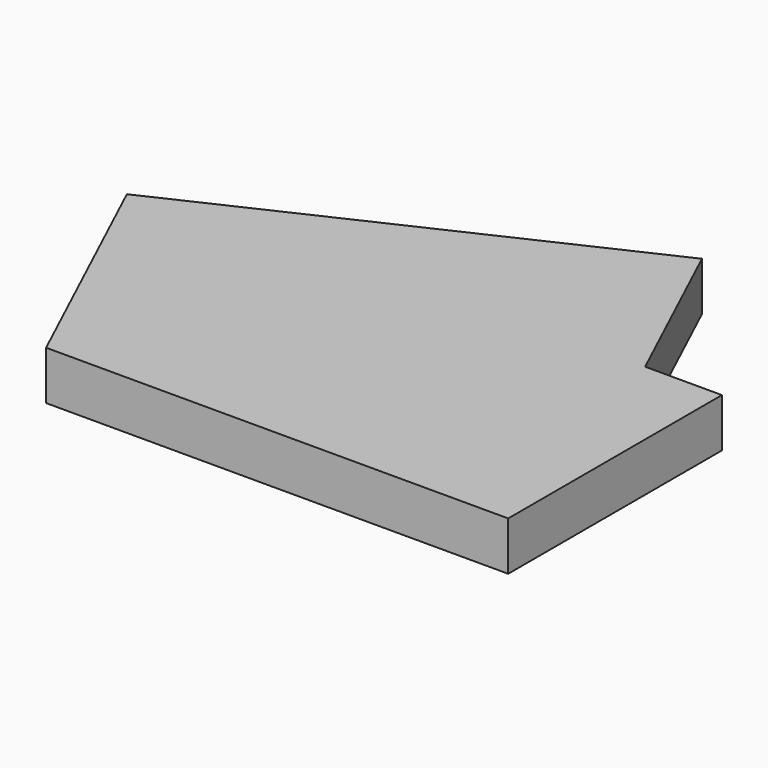
from build123d import *

# Parameters (mm, degrees)
F1_DEPTH = 25


with BuildPart() as f1:
    # F0 (on Top) → F1 (new body)
    with BuildSketch(Plane.XY):
        Polygon((0, 0), (0, 137), (197.6164176269, 137), (156.8962436692, 224.3246948566), (-57.8987018585, 124.164166824), align=None)
        Polygon((197.6164176269, 137), (0, 137), (0, 0), (47.1280049259, 21.9761496105), (214.7949455277, 100.1605280325), align=None)
        Polygon((237, 137), (197.6164176269, 137), (214.7949455277, 100.1605280325), (47.1280049259, 21.9761496105), (0, 0), (237, 0), align=None)
    extrude(amount=F1_DEPTH)


solid = f1.part
